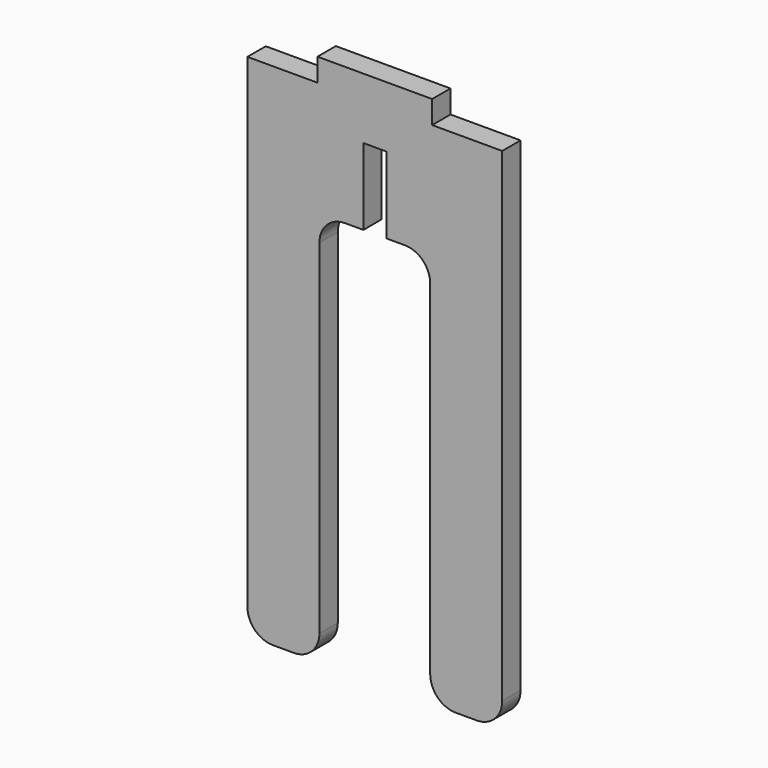
from build123d import *

# Parameters (mm, degrees)
F2_DEPTH = 18
F3_DEPTH = 188


with BuildPart() as f2:
    # F0 (on Front) → F2 (new body)
    with BuildSketch(Plane.XZ):
        with BuildLine():
            Line((63.480214, -200), (80, -200))
            ThreePointArc((80, -200), (94.142136, -194.142136), (100, -180))
            Line((100, -180), (100, 200))
            Line((100, 200), (45, 200))
            Line((45, 200), (45, 218))
            Line((45, 218), (-45, 218))
            Line((-45, 218), (-45, 200))
            Line((-45, 200), (-100, 200))
            Line((-100, 200), (-100, -180))
            ThreePointArc((-100, -180), (-94.142136, -194.142136), (-80, -200))
            Line((-80, -200), (-63.480214, -200))
            ThreePointArc((-63.480214, -200), (-49.338079, -194.142136), (-43.480214, -180))
            Line((-43.480214, -180), (-43.480214, -110))
            Line((-43.480214, -110), (-43.480214, 90))
            ThreePointArc((-43.480214, 90), (-37.62235, 104.142136), (-23.480214, 110))
            Line((-23.480214, 110), (23.480214, 110))
            ThreePointArc((23.480214, 110), (37.62235, 104.142136), (43.480214, 90))
            Line((43.480214, 90), (43.480214, -110))
            Line((43.480214, -110), (43.480214, -180))
            ThreePointArc((43.480214, -180), (49.338079, -194.142136), (63.480214, -200))
        make_face()
    extrude(amount=F2_DEPTH)

    # F1 (on face) → F3 (cut)
    with BuildSketch(Plane.XZ):
        Polygon((9, 170.049076), (-9, 170.049076), (-9, 110.049076), (0, 110.049076), (9, 110.049076), align=None)
        Polygon((0, 110.049076), (-9, 110.049076), (-9, 70.049076), (9, 70.049076), (9, 110.049076), align=None)
    extrude(amount=F3_DEPTH, mode=Mode.SUBTRACT)


solid = f2.part
